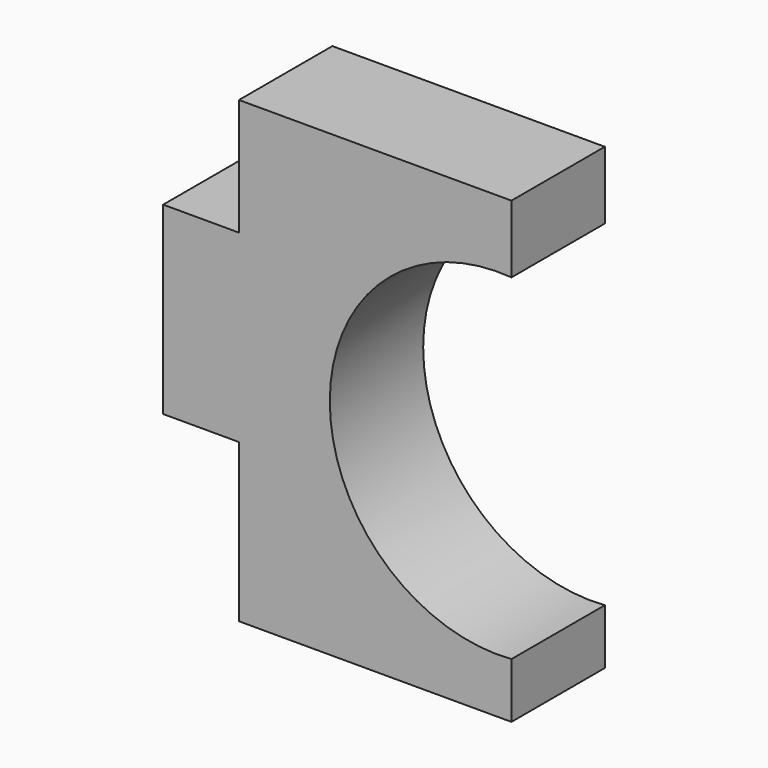
from build123d import *

# Parameters (mm, degrees)
F1_DEPTH = 25.4


with BuildPart() as f1:
    # F0 (on Front) → F1 (new body)
    with BuildSketch(Plane.XZ):
        with BuildLine():
            Line((-121.932343, -12.705927), (-121.932343, -47.034226))
            Line((-121.932343, -47.034226), (-62.638, -47.034226))
            Line((-62.638, -47.034226), (-62.638, -34.997035))
            ThreePointArc((-62.638, -34.997035), (-102.167376, 1.560377), (-62.638, 38.117789))
            Line((-62.638, 38.117789), (-62.638, 52.829918))
            Line((-62.638, 52.829918), (-121.932343, 52.829918))
            Line((-121.932343, 52.829918), (-121.932343, 27.418062))
            Line((-121.932343, 27.418062), (-138.427749, 27.418062))
            Line((-138.427749, 27.418062), (-138.427749, -12.705927))
            Line((-138.427749, -12.705927), (-121.932343, -12.705927))
        make_face()
    extrude(amount=F1_DEPTH)


solid = f1.part
